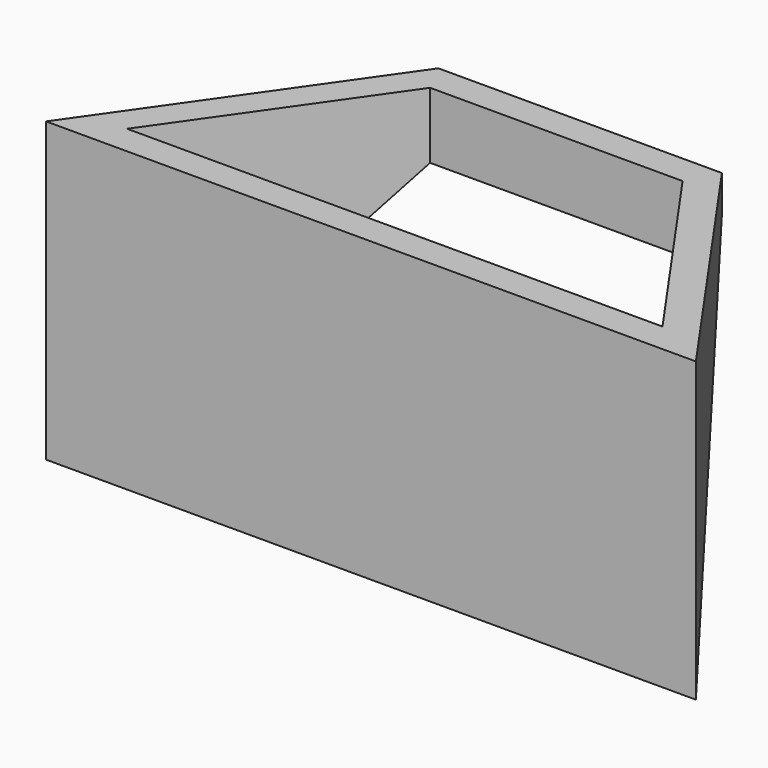
from build123d import *

# Parameters (mm, degrees)
F1_DEPTH      = 1000
F3_DEPTH      = 1091.0655359211
F3_DEPTH_BACK = 1091.0655359211


with BuildPart() as f1:
    # F0 (on Top) → F1 (new body)
    with BuildSketch(Plane.XY):
        Polygon((476.0241719385, 439.0613704803), (-476.0241719385, 439.0613704803), (-1091.0645359211, -439.0613704803), (1091.0645359211, -439.0613704803), align=None)
        Polygon((-898.9354640789, -339.0613704803), (-423.9758280615, 339.0613704803), (423.9758280615, 339.0613704803), (898.9354640789, -339.0613704803), align=None, mode=Mode.SUBTRACT)
    extrude(amount=F1_DEPTH)

    # F2 (on Right) → F3 (cut, two sides)
    with BuildSketch(Plane.YZ) as f3_sk:
        Polygon((-439.0613704803, 0), (439.0613704803, 0), (439.0613704803, 878.1227409606), align=None)
    extrude(amount=-F3_DEPTH, mode=Mode.SUBTRACT)
    extrude(f3_sk.sketch, amount=F3_DEPTH_BACK, mode=Mode.SUBTRACT)


solid = f1.part
